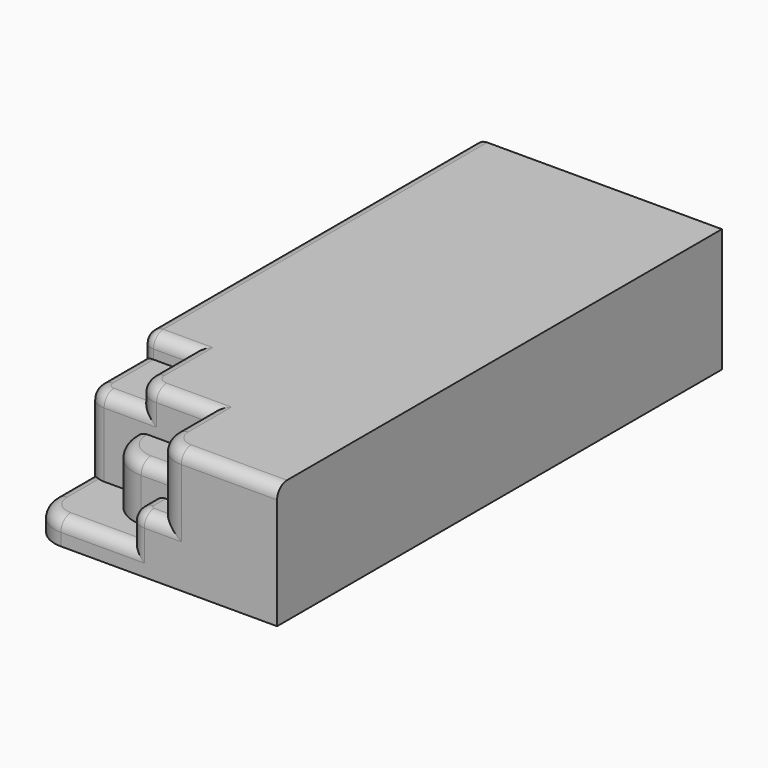
from build123d import *

# Parameters (mm, degrees)
F1_DEPTH = 80
F2_W     = 80
F2_H     = 225
F3_DEPTH = 320
F4_DEPTH = 250
F2_H_2   = 125
F5_DEPTH = 180
F6_DEPTH = 100
F7_R     = 40


with BuildPart() as f1:
    # F0 (on Top) → F1 (new body)
    with BuildSketch(Plane.XY):
        with BuildLine():
            ThreePointArc((-400, -800), (-370.7106781187, -870.7106781187), (-300, -900))
            Line((-300, -900), (400, -900))
            Line((400, -900), (400, 900))
            Line((400, 900), (-400, 900))
            Line((-400, 900), (-400, -800))
        make_face()
    extrude(amount=F1_DEPTH)

    # F2 (on face) → F3 (join)
    with BuildSketch(Plane.XY.offset(80)):
        with BuildLine():
            Line((400, -900), (400, 900))
            Line((400, 900), (-400, 900))
            Line((-400, 900), (-400, 0))
            Line((-400, 0), (0, 0))
            Line((0, 0), (0, -450))
            Line((0, -450), (0, -675))
            Line((0, -675), (0, -800))
            Line((0, -800), (0, -810))
            ThreePointArc((0, -810), (26.3603896932, -873.6396103068), (90, -900))
            Line((90, -900), (122.6464435458, -900))
            Line((122.6464435458, -900), (400, -900))
        make_face()
        with BuildLine():
            Line((0, 0), (-400, 0))
            Line((-400, 0), (-400, -410))
            ThreePointArc((-400, -410), (-388.2842712475, -438.2842712475), (-360, -450))
            Line((-360, -450), (-240, -450))
            Line((-240, -450), (-80, -450))
            Line((-80, -450), (0, -450))
            Line((0, -450), (0, 0))
        make_face()
        with Locations((-40, -562.5)):
            Rectangle(F2_W, F2_H)
        with BuildLine():
            Line((-80, -450), (-240, -450))
            Line((-240, -450), (-240, -605))
            ThreePointArc((-240, -605), (-219.4974746831, -654.4974746831), (-170, -675))
            Line((-170, -675), (-80, -675))
            Line((-80, -675), (-80, -450))
        make_face()
    extrude(amount=F3_DEPTH)

    # F2 (on face) → F4 (join)
    with BuildSketch(Plane.XY.offset(80)):
        with BuildLine():
            ThreePointArc((-360, -450), (-388.2842712475, -438.2842712475), (-400, -410))
            Line((-400, -410), (-400, -450))
            Line((-400, -450), (-400, -615))
            ThreePointArc((-400, -615), (-382.4264068712, -657.4264068712), (-340, -675))
            Line((-340, -675), (-240, -675))
            Line((-240, -675), (-240, -605))
            Line((-240, -605), (-240, -450))
            Line((-240, -450), (-360, -450))
        make_face()
        with BuildLine():
            ThreePointArc((-170, -675), (-219.4974746831, -654.4974746831), (-240, -605))
            Line((-240, -605), (-240, -675))
            Line((-240, -675), (-170, -675))
        make_face()
    extrude(amount=F4_DEPTH)

    # F2 (on face) → F5 (join)
    with BuildSketch(Plane.XY.offset(80)):
        with BuildLine():
            Line((-80, -800), (-80, -675))
            Line((-80, -675), (-170, -675))
            Line((-170, -675), (-240, -675))
            Line((-240, -675), (-240, -680))
            ThreePointArc((-240, -680), (-204.8528137424, -764.8528137424), (-120, -800))
            Line((-120, -800), (-80, -800))
        make_face()
        with Locations((-40, -562.5)):
            Rectangle(F2_W, F2_H)
        with Locations((-40, -737.5)):
            Rectangle(F2_W, F2_H_2)
        with BuildLine():
            ThreePointArc((-170, -675), (-219.4974746831, -654.4974746831), (-240, -605))
            Line((-240, -605), (-240, -675))
            Line((-240, -675), (-170, -675))
        make_face()
    extrude(amount=F5_DEPTH)

    # F2 (on face) → F6 (join)
    with BuildSketch(Plane.XY.offset(80)):
        with Locations((-40, -562.5)):
            Rectangle(F2_W, F2_H)
        with Locations((-40, -737.5)):
            Rectangle(F2_W, F2_H_2)
        with BuildLine():
            Line((-30, -900), (0, -900))
            Line((0, -900), (0, -810))
            Line((0, -810), (0, -800))
            Line((0, -800), (-80, -800))
            Line((-80, -800), (-80, -850))
            ThreePointArc((-80, -850), (-65.3553390593, -885.3553390593), (-30, -900))
        make_face()
        with BuildLine():
            Line((0, -900), (90, -900))
            ThreePointArc((90, -900), (26.3603896932, -873.6396103068), (0, -810))
            Line((0, -810), (0, -900))
        make_face()
    extrude(amount=F6_DEPTH)

    # F7
    f7_edges = [f1.edges().sort_by_distance(p)[0] for p in [
        (-219.497475, -654.497475, 400),
        (26.36039, -873.63961, 400),
        (-300, -450, 400),
        (-382.426407, -657.426407, 330),
        (-204.852814, -764.852814, 260),
        (-65.355339, -885.355339, 180),
        (-370.710678, -870.710678, 80),
    ]]
    fillet(f7_edges, radius=F7_R)


solid = f1.part
